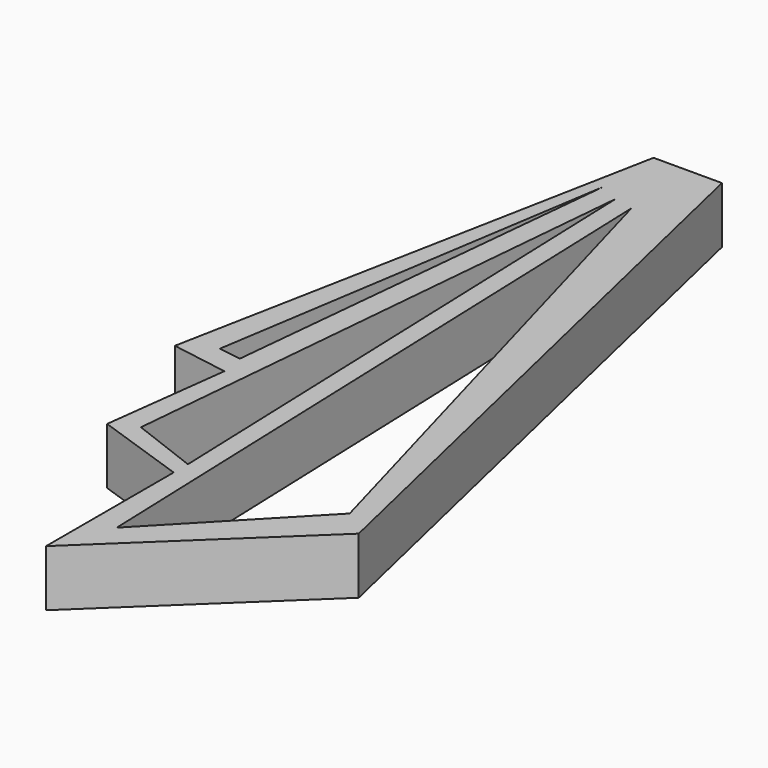
from build123d import *

# Parameters (mm, degrees)
F1_DEPTH = 5.08
F3_DEPTH = 5.081


with BuildPart() as f1:
    # F0 (on Top) → F1 (new body)
    with BuildSketch(Plane.XY):
        Polygon((6.153645, 0), (0, 0), (-8.390682, -43.35469), (-3.25739, -44.21024), (-4.683303, -55.617552), (3.587, -58.469381), (3.587, -72.821287), (19.557245, -57.613831), align=None)
    extrude(amount=F1_DEPTH)

    # F2 (on face) → F3 (cut, through all)
    with BuildSketch(Plane.XY.offset(5.08)):
        Polygon((-3.603624, -42.042655), (0, -5.686419), (-5.647006, -41.722448), align=None)
        Polygon((1.832028, -6.560447), (-2.508952, -54.530412), (3.587, -56.867383), align=None)
        Polygon((17.146425, -55.617552), (3.587, -6.973051), (5.708846, -67.526846), align=None)
    extrude(amount=-F3_DEPTH, mode=Mode.SUBTRACT)


solid = f1.part
